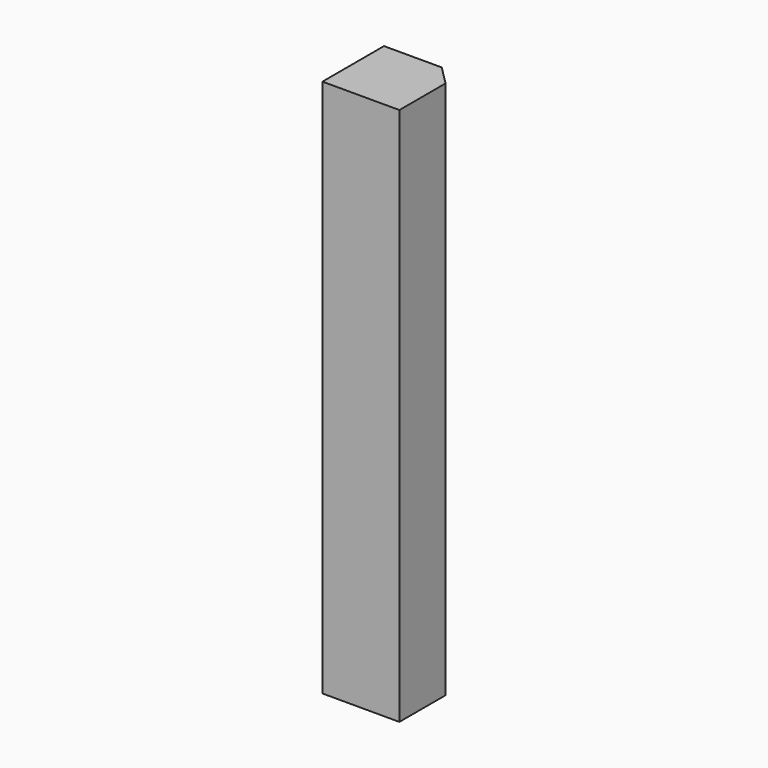
from build123d import *

# Parameters (mm, degrees)
F0_W     = 25.4
F0_H     = 25.4
F1_DEPTH = 177.8
F2_SIZE2 = 6.35
F2_SIZE  = 6.35


with BuildPart() as f1:
    # F0 (on Top) → F1 (new body)
    with BuildSketch(Plane.XY):
        with Locations((12.7, 12.7)):
            Rectangle(F0_W, F0_H)
    extrude(amount=F1_DEPTH)

    # F2
    f2_edges = [f1.edges().sort_by_distance(p)[0] for p in [
        (25.4, 25.4, 88.9),
    ]]
    chamfer(f2_edges, length=F2_SIZE, length2=F2_SIZE2)


solid = f1.part
